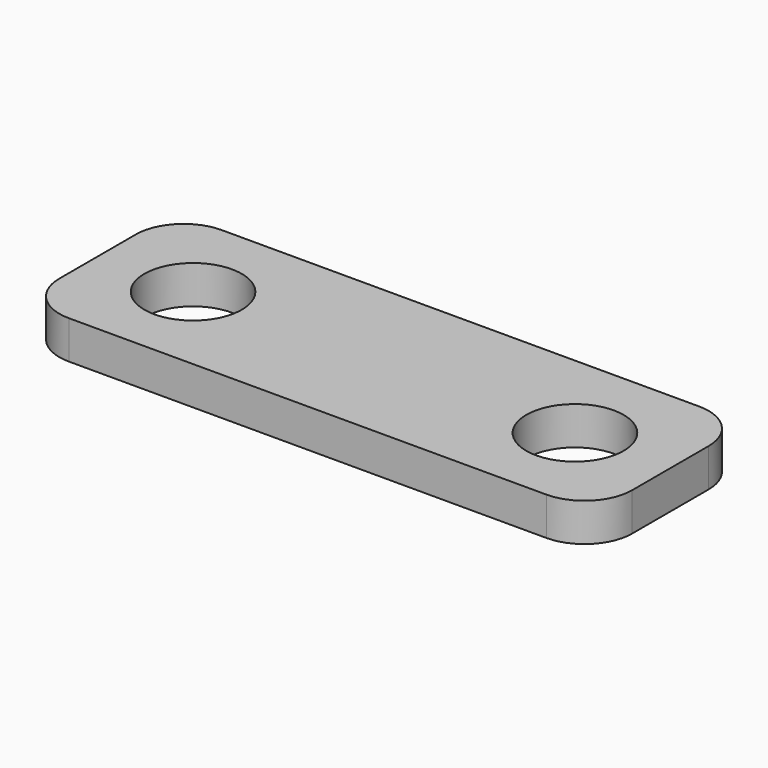
from build123d import *

# Parameters (mm, degrees)
F0_W     = 60
F0_H     = 20
F1_DEPTH = 4
F2_D     = 10.2
F3_R     = 5


with BuildPart() as f1:
    # F0 (on Top) → F1 (new body)
    with BuildSketch(Plane.XY):
        Rectangle(F0_W, F0_H)
    extrude(amount=F1_DEPTH)

    # F2 (through all)
    with Locations(Plane(origin=(0, 0, 0), x_dir=(1, 0, 0), z_dir=(0, 0, -1))):
        with Locations((-20, 0), (20, 0)):
            Hole(F2_D / 2)

    # F3
    f3_edges = [f1.edges().sort_by_distance(p)[0] for p in [
        (-30, 10, 2),
        (-30, -10, 2),
        (30, 10, 2),
        (30, -10, 2),
    ]]
    fillet(f3_edges, radius=F3_R)


solid = f1.part
